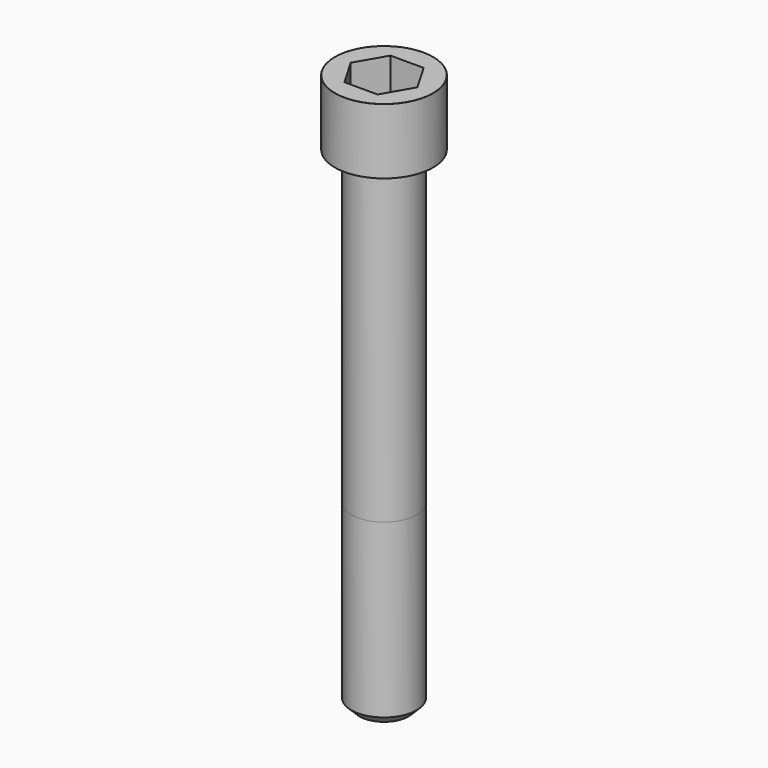
from build123d import *

# Parameters (mm, degrees)
POCKET_DEPTH = 14.08


with BuildPart() as part:
    # Sketch → Revolve (revolve)
    with BuildSketch(Plane.YZ):
        with BuildLine():
            Line((7.999, 0), (12, 0))
            Line((12, 0), (12, 15.97229))
            ThreePointArc((12, 15.97229), (11.991884, 15.991884), (11.97229, 16))
            Line((11.97229, 16), (0, 16))
            Line((0, -120), (0, 16))
            Line((6, -120), (0, -120))
            Line((8, -118), (6, -120))
            Line((8, -76), (8, -118))
            Line((7.999, 0), (8, -76))
        make_face()
    revolve(axis=Axis((0, 0, 0), (0, 0, 1)))

    # Sketch001 → Pocket (cut)
    with BuildSketch(Plane.XY.offset(16)):
        Polygon((8.129092, 0), (4.064546, 7.04), (-4.064546, 7.04), (-8.129092, 0), (-4.064546, -7.04), (4.064546, -7.04), align=None)
    extrude(amount=-POCKET_DEPTH, mode=Mode.SUBTRACT)


solid = part.part
